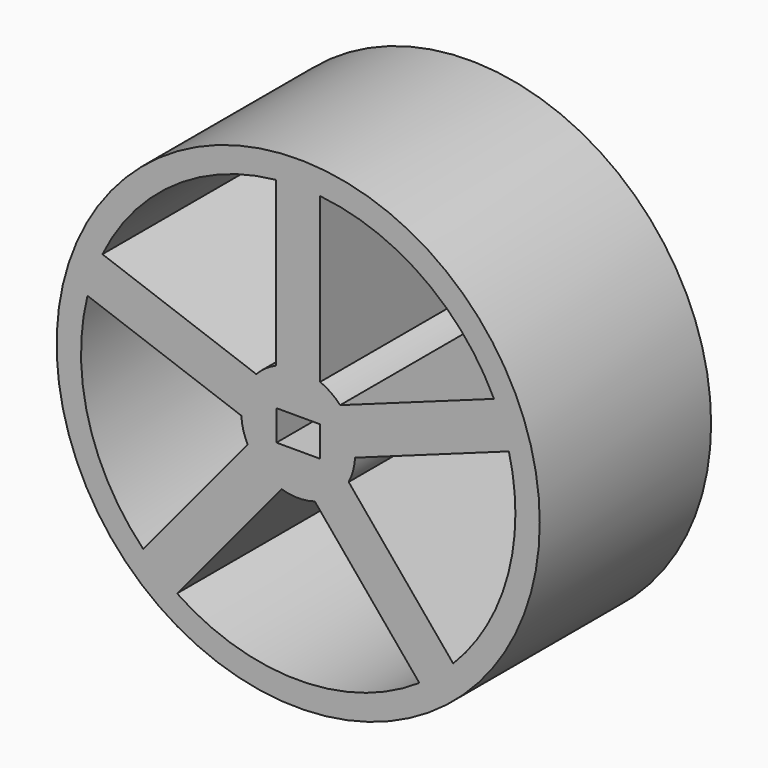
from build123d import *

# Parameters (mm, degrees)
F0_R     = 28.6456
F0_W     = 5.16
F0_H     = 3.6
F1_DEPTH = 25.4


with BuildPart() as f1:
    # F0 (on Front) → F1 (new body)
    with BuildSketch(Plane.XZ):
        Circle(F0_R)
        with BuildLine():
            ThreePointArc((24.985762, 6.250008), (25.562416, 3.148621), (25.7556, 0))
            ThreePointArc((25.7556, 0), (23.840092, -9.746842), (18.378491, -18.043891))
            ThreePointArc((18.378491, -18.043891), (16.456525, -19.812463), (14.365323, -21.377288))
            ThreePointArc((14.365323, -21.377288), (0, -25.7556), (-14.365323, -21.377288))
            ThreePointArc((-14.365323, -21.377288), (-16.456525, -19.812463), (-18.378491, -18.043891))
            ThreePointArc((-18.378491, -18.043891), (-24.852827, -6.759284), (-24.985762, 6.250008))
            ThreePointArc((-24.985762, 6.250008), (-24.224294, 8.748401), (-23.213706, 11.156827))
            ThreePointArc((-23.213706, 11.156827), (-14.799166, 21.07927), (-2.608498, 25.623167))
            ThreePointArc((-2.608498, 25.623167), (0, 25.7556), (2.608498, 25.623167))
            ThreePointArc((2.608498, 25.623167), (14.799166, 21.07927), (23.213706, 11.156827))
            ThreePointArc((23.213706, 11.156827), (24.224294, 8.748401), (24.985762, 6.250008))
        make_face(mode=Mode.SUBTRACT)
        with BuildLine():
            Line((2.608498, 6.225611), (2.608498, 25.623167))
            ThreePointArc((2.608498, 25.623167), (0, 25.7556), (-2.608498, 25.623167))
            Line((-2.608498, 25.623167), (-2.608498, 6.225611))
            ThreePointArc((-2.608498, 6.225611), (0, 6.75), (2.608498, 6.225611))
        make_face()
        with BuildLine():
            Line((6.741494, -0.338757), (24.985762, 6.250008))
            ThreePointArc((24.985762, 6.250008), (24.224294, 8.748401), (23.213706, 11.156827))
            Line((23.213706, 11.156827), (4.969438, 4.568062))
            ThreePointArc((4.969438, 4.568062), (6.289126, 2.451407), (6.75, 0))
            ThreePointArc((6.75, 0), (6.747873, -0.169432), (6.741494, -0.338757))
        make_face()
        with BuildLine():
            ThreePointArc((5.984435, -3.122345), (6.513402, -1.771466), (6.741494, -0.338757))
            ThreePointArc((6.741494, -0.338757), (6.747873, -0.169432), (6.75, 0))
            ThreePointArc((6.75, 0), (6.289126, 2.451407), (4.969438, 4.568062))
            ThreePointArc((4.969438, 4.568062), (3.878549, 5.524432), (2.608498, 6.225611))
            ThreePointArc((2.608498, 6.225611), (0, 6.75), (-2.608498, 6.225611))
            ThreePointArc((-2.608498, 6.225611), (-3.878549, 5.524432), (-4.969438, 4.568062))
            ThreePointArc((-4.969438, 4.568062), (-6.348677, 2.292772), (-6.741494, -0.338757))
            ThreePointArc((-6.741494, -0.338757), (-6.513402, -1.771466), (-5.984435, -3.122345))
            ThreePointArc((-5.984435, -3.122345), (-4.312909, -5.192429), (-1.971267, -6.455742))
            ThreePointArc((-1.971267, -6.455742), (0, -6.75), (1.971267, -6.455742))
            ThreePointArc((1.971267, -6.455742), (4.312909, -5.192429), (5.984435, -3.122345))
        make_face()
        Rectangle(F0_W, F0_H, mode=Mode.SUBTRACT)
        with BuildLine():
            ThreePointArc((14.365323, -21.377288), (16.456525, -19.812463), (18.378491, -18.043891))
            Line((18.378491, -18.043891), (5.984435, -3.122345))
            ThreePointArc((5.984435, -3.122345), (4.312909, -5.192429), (1.971267, -6.455742))
            Line((1.971267, -6.455742), (14.365323, -21.377288))
        make_face()
        with BuildLine():
            ThreePointArc((-18.378491, -18.043891), (-16.456525, -19.812463), (-14.365323, -21.377288))
            Line((-14.365323, -21.377288), (-1.971267, -6.455742))
            ThreePointArc((-1.971267, -6.455742), (-4.312909, -5.192429), (-5.984435, -3.122345))
            Line((-5.984435, -3.122345), (-18.378491, -18.043891))
        make_face()
        with BuildLine():
            Line((-4.969438, 4.568062), (-23.213706, 11.156827))
            ThreePointArc((-23.213706, 11.156827), (-24.224294, 8.748401), (-24.985762, 6.250008))
            Line((-24.985762, 6.250008), (-6.741494, -0.338757))
            ThreePointArc((-6.741494, -0.338757), (-6.348677, 2.292772), (-4.969438, 4.568062))
        make_face()
    extrude(amount=F1_DEPTH)


solid = f1.part
